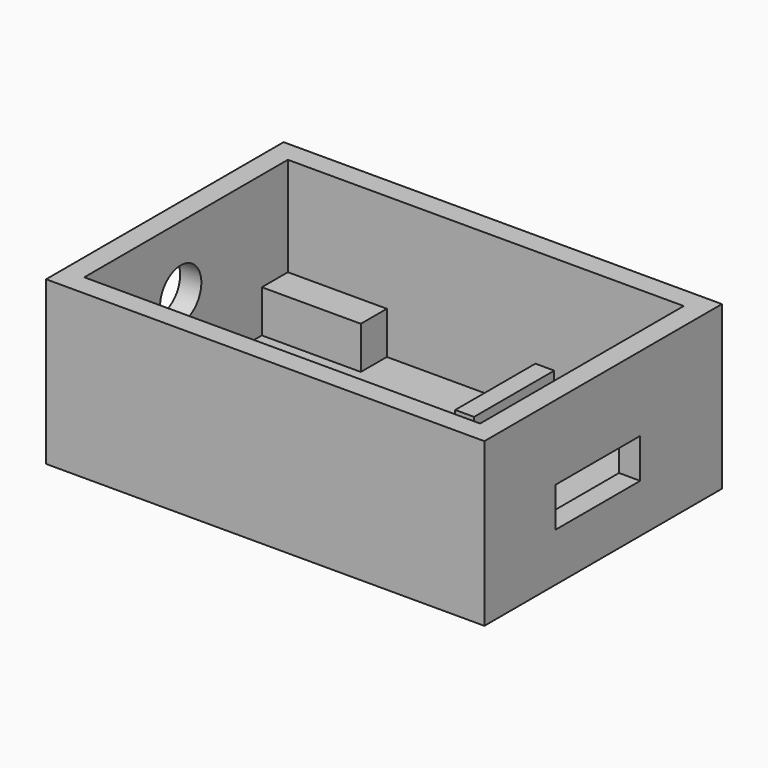
from build123d import *

# Parameters (mm, degrees)
F0_W      = 28
F0_H      = 18
F1_DEPTH  = 10
F2_T      = 1.5
F3_W      = 7.5
F3_H      = 2.8
F4_DEPTH  = 2
F5_R      = 1.15
F6_DEPTH  = 3
F6_TAPER  = -10
F7_W      = 1.3330084621
F7_H      = 7.0881857659
F7_W_2    = 7
F7_H_2    = 2.3
F8_DEPTH  = 3
F9_R      = 1.8245236246
F10_DEPTH = 5


with BuildPart() as f1:
    # F0 (on Top) → F1 (new body)
    with BuildSketch(Plane.XY):
        with Locations((-2.9748789966, 0.4724050845)):
            Rectangle(F0_W, F0_H)
    extrude(amount=F1_DEPTH)

    # F2
    f2_openings = [f1.faces().sort_by_distance(p)[0] for p in [
        (-2.974879, 0.472405, 10),
    ]]
    offset(amount=F2_T, openings=f2_openings, kind=Kind.INTERSECTION)

    # F3 (on face) → F4 (cut)
    with BuildSketch(Plane.YZ.offset(12.5251210034)):
        with Locations((0, 3.3291981078)):
            Rectangle(F3_W, F3_H)
    extrude(amount=-F4_DEPTH, mode=Mode.SUBTRACT)

    # F5 (on face) → F6 (cut)
    with BuildSketch(Plane(origin=(0, 0, -1.5), x_dir=(1, 0, 0), z_dir=(0, 0, -1))):
        with Locations((-1.3835662976, -6.25)):
            Circle(F5_R)
        with Locations((3.7751210034, -6.1826660439)):
            Circle(F5_R)
    extrude(amount=-F6_DEPTH, taper=F6_TAPER, mode=Mode.SUBTRACT)

    # F7 (on face) → F8 (join)
    with BuildSketch(Plane.XY):
        with Locations((1.1995443201, 5.9283122016)):
            Rectangle(F7_W, F7_H)
        with Locations((-13.4748789966, -7.3775949155)):
            Rectangle(F7_W_2, F7_H_2)
        with Locations((-13.4748789966, 8.3224050845)):
            Rectangle(F7_W_2, F7_H_2)
    extrude(amount=F8_DEPTH)

    # F9 (on face) → F10 (cut)
    with BuildSketch(Plane(origin=(-18.4748789966, 0, 0), x_dir=(0, -1, 0), z_dir=(-1, 0, 0))):
        with Locations((0, 5.4590702057)):
            Circle(F9_R)
    extrude(amount=-F10_DEPTH, mode=Mode.SUBTRACT)


solid = f1.part
